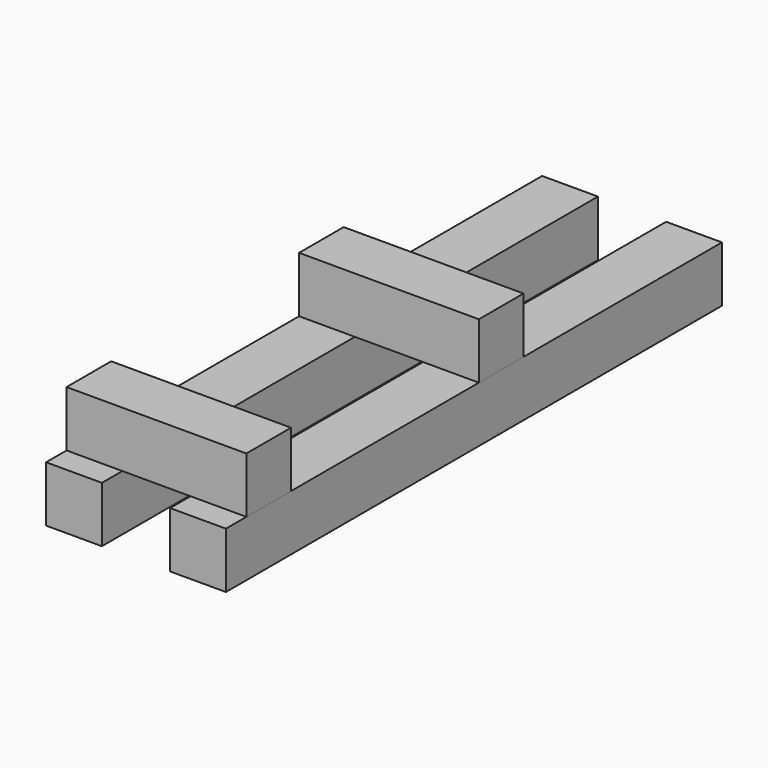
from build123d import *

# Parameters (mm, degrees)
F0_W     = 45
F0_H     = 45
F1_DEPTH = 500
F2_W     = 45
F2_H     = 45
F3_DEPTH = 145
F4_W     = 45
F4_H     = 45
F5_DEPTH = 145


with BuildPart() as f1:
    # F0 (on Front) → F1 (new body)
    with BuildSketch(Plane.XZ):
        with Locations((50, 0)):
            Rectangle(F0_W, F0_H)
        with Locations((-50, 0)):
            Rectangle(F0_W, F0_H)
    extrude(amount=F1_DEPTH)


with BuildPart() as f3:
    # F2 (on face) → F3 (new body)
    with BuildSketch(Plane.YZ.offset(72.5)):
        with Locations((-222.5, 45)):
            Rectangle(F2_W, F2_H)
    extrude(amount=-F3_DEPTH)


with BuildPart() as f5:
    # F4 (on face) → F5 (new body)
    with BuildSketch(Plane.YZ.offset(72.5)):
        with Locations((-456.868402, 45)):
            Rectangle(F4_W, F4_H)
    extrude(amount=-F5_DEPTH)


solid = Compound([f1.part, f3.part, f5.part])
